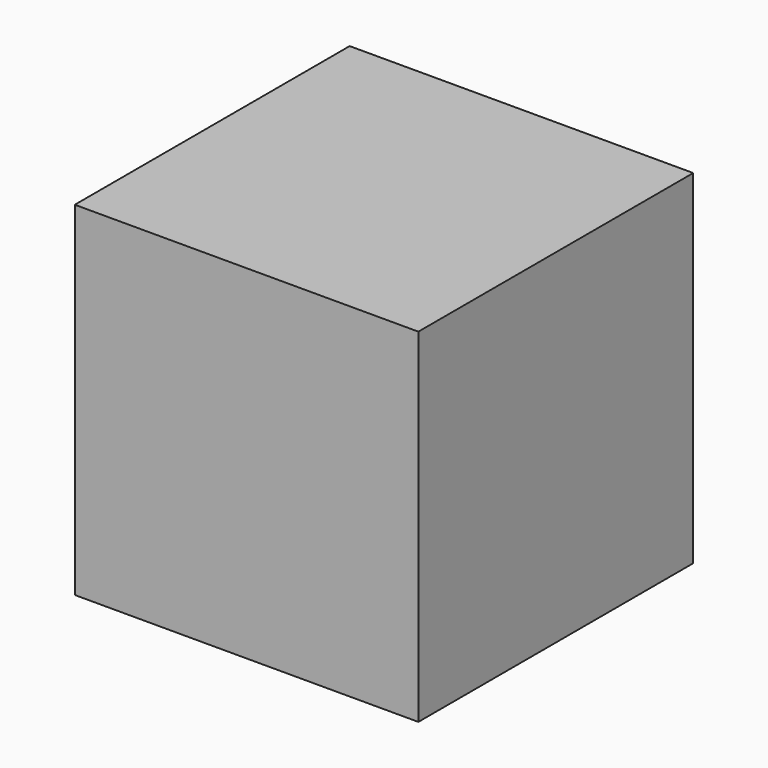
from build123d import *

# Parameters (mm, degrees)
SKETCH_W  = 25
SKETCH_H  = 25
PAD_DEPTH = 12.5


with BuildPart() as part:
    # Sketch → Pad (new body, symmetric)
    with BuildSketch(Plane.XY):
        Rectangle(SKETCH_W, SKETCH_H)
    extrude(amount=PAD_DEPTH, both=True)


solid = part.part
